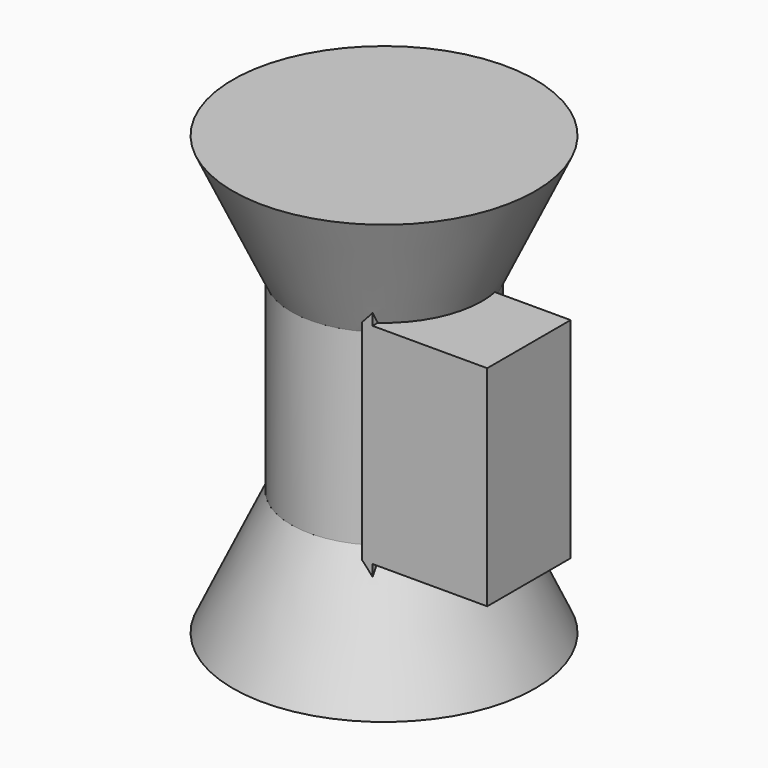
from build123d import *

# Parameters (mm, degrees)
SKETCH001_W  = 0.5
SKETCH001_H  = 6.25
PAD_DEPTH    = 20
SKETCH002_W  = 6
SKETCH002_H  = 10.057596
PAD001_DEPTH = 5


with BuildPart() as part:
    # Sketch → Revolution (revolve)
    with BuildSketch(Plane.XZ):
        Polygon((0, 0), (7.25, 0), (4.452154, 6), (4.452154, 15), (7.25, 21), (0, 21), align=None)
    revolve(axis=Axis((0, 0, 0), (0, 0, 1)))

    # Sketch001 → Pad (new body)
    with BuildSketch(Plane(origin=(0, 0, 21), x_dir=(-1, 0, 0), z_dir=(0, 0, 1))):
        with Locations((-2.5, 1)):
            Rectangle(SKETCH001_W, SKETCH001_H)
    extrude(amount=-PAD_DEPTH)

    # Sketch002 → Pad001 (new body)
    with BuildSketch(Plane.XZ.offset(4.125)):
        with Locations((5.25, 10.5)):
            Rectangle(SKETCH002_W, SKETCH002_H)
    extrude(amount=-PAD001_DEPTH)


solid = part.part
